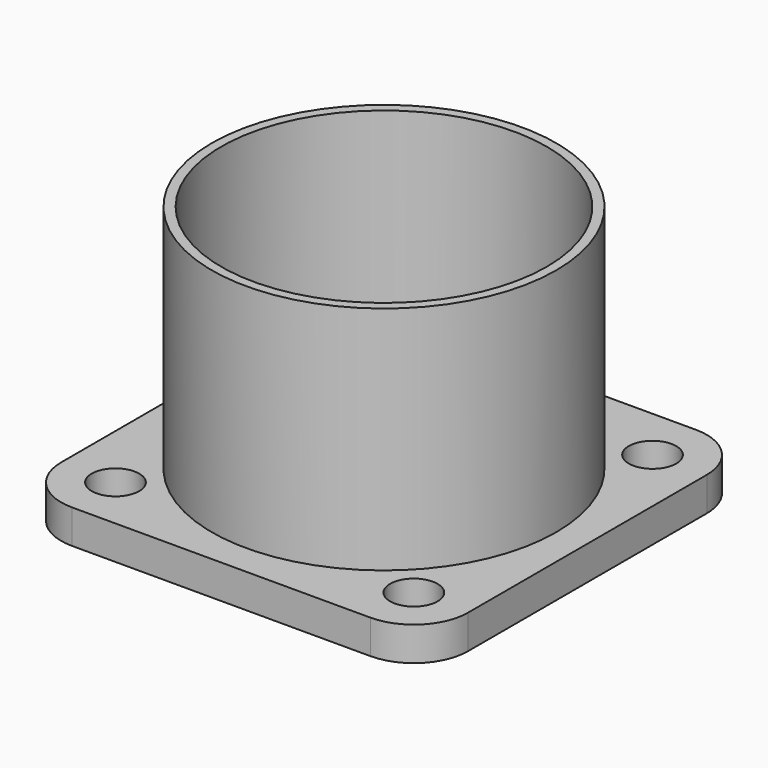
from build123d import *

# Parameters (mm, degrees)
F0_R           = 24
F1_DEPTH       = 5
F2_R           = 25.4
F2_R_2         = 24
F3_DEPTH       = 34
F4_D           = 4
F4_CBORE_D     = 7
F4_CBORE_DEPTH = 4


with BuildPart() as f1:
    # F0 (on Top) → F1 (new body)
    with BuildSketch(Plane.XY):
        with BuildLine():
            Line((22, 30), (-22, 30))
            ThreePointArc((-22, 30), (-27.656854, 27.656854), (-30, 22))
            Line((-30, 22), (-30, -22))
            ThreePointArc((-30, -22), (-27.656854, -27.656854), (-22, -30))
            Line((-22, -30), (22, -30))
            ThreePointArc((22, -30), (27.656854, -27.656854), (30, -22))
            Line((30, -22), (30, 22))
            ThreePointArc((30, 22), (27.656854, 27.656854), (22, 30))
        make_face()
        Circle(F0_R, mode=Mode.SUBTRACT)
    extrude(amount=-F1_DEPTH)

    # F2 (on face) → F3 (join)
    with BuildSketch(Plane.XY):
        Circle(F2_R)
        Circle(F2_R_2, mode=Mode.SUBTRACT)
    extrude(amount=F3_DEPTH)

    # F4 (through all)
    with Locations(Plane.XY):
        with Locations((-22, -22), (22, -22), (22, 22), (-22, 22)):
            CounterBoreHole(F4_D / 2, F4_CBORE_D / 2, F4_CBORE_DEPTH)


solid = f1.part
